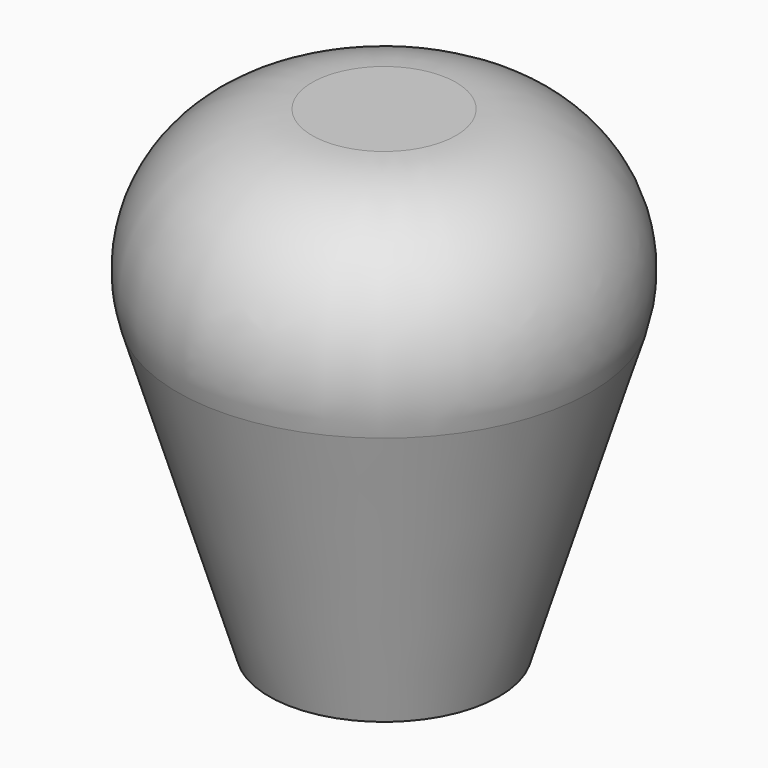
from build123d import *


with BuildPart() as f1:
    # F0 (on Front) → F1 (revolve)
    with BuildSketch(Plane.XZ):
        with BuildLine():
            Line((0, 50), (0, 31))
            Line((0, 31), (21.534593, 31))
            ThreePointArc((21.534593, 31), (19.310692, 44.040703), (7.5, 50))
            Line((7.5, 50), (0, 50))
        make_face()
        Polygon((0, 31), (0, 25), (4, 25), (4, 0), (12, 0), (21.534593, 31), align=None)
    revolve(axis=Axis((0, 0, 25), (0, 0, 1)))


solid = f1.part
